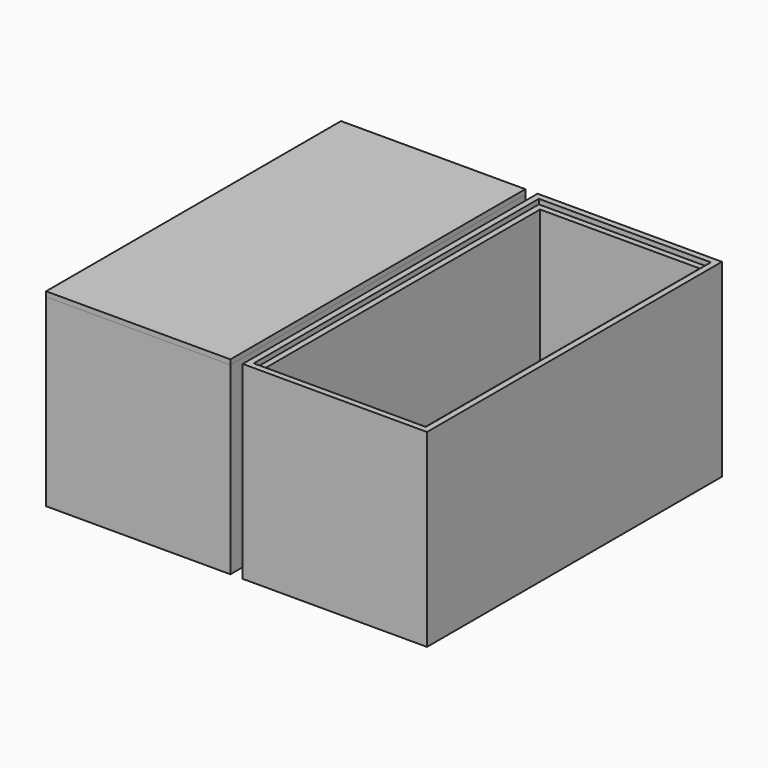
from build123d import *

# Parameters (mm, degrees)
F0_W     = 15
F0_H     = 15
F1_DEPTH = 15
F2_DEPTH = 15
F4_T     = -1
F5_T     = -1
F3_W     = 0.5
F3_H     = 0.4
F6_DEPTH = 15
F7_DEPTH = 14.5


with BuildPart() as f1:
    # F0 (on Front) → F1 (new body, symmetric)
    with BuildSketch(Plane.XZ):
        with Locations((8.5, 7.5)):
            Rectangle(F0_W, F0_H)
    extrude(amount=F1_DEPTH, both=True)

    # F4
    f4_openings = [f1.faces().sort_by_distance(p)[0] for p in [
        (8.5, 0, 15),
    ]]
    offset(amount=F4_T, openings=f4_openings)

    # F3 (on Front) → F6 (join, symmetric)
    with BuildSketch(Plane.XZ):
        with Locations((1.25, 15.2)):
            Rectangle(F3_W, F3_H)
        with Locations((15.75, 15.2)):
            Rectangle(F3_W, F3_H)
        Polygon((15.5, 15.4), (1.5, 15.4), (1.5, 15), (3, 15), (15.5, 15), align=None)
    extrude(amount=F6_DEPTH, both=True)

    # F3 (on Front) → F7 (cut, symmetric)
    with BuildSketch(Plane.XZ):
        Polygon((15.5, 15.4), (1.5, 15.4), (1.5, 15), (3, 15), (15.5, 15), align=None)
    extrude(amount=F7_DEPTH, both=True, mode=Mode.SUBTRACT)


with BuildPart() as f2:
    # F0 (on Front) → F2 (new body, symmetric)
    with BuildSketch(Plane.XZ):
        with Locations((-7.5, 7.5)):
            Rectangle(F0_W, F0_H)
    extrude(amount=F2_DEPTH, both=True)

    # F5
    f5_openings = [f2.faces().sort_by_distance(p)[0] for p in [
        (-7.5, 0, 15),
    ]]
    offset(amount=F5_T, openings=f5_openings)


with BuildPart() as f6:
    # F3 (on Front) → F6, piece 2 (new body, symmetric)
    with BuildSketch(Plane.XZ):
        with Locations((-0.25, 15.2)):
            Rectangle(F3_W, F3_H)
        with Locations((-14.75, 15.2)):
            Rectangle(F3_W, F3_H)
        Polygon((-14.5, 15), (-2, 15), (-0.5, 15), (-0.5, 15.4), (-14.5, 15.4), align=None)
    extrude(amount=F6_DEPTH, both=True)


solid = Compound([f1.part, f2.part, f6.part])
